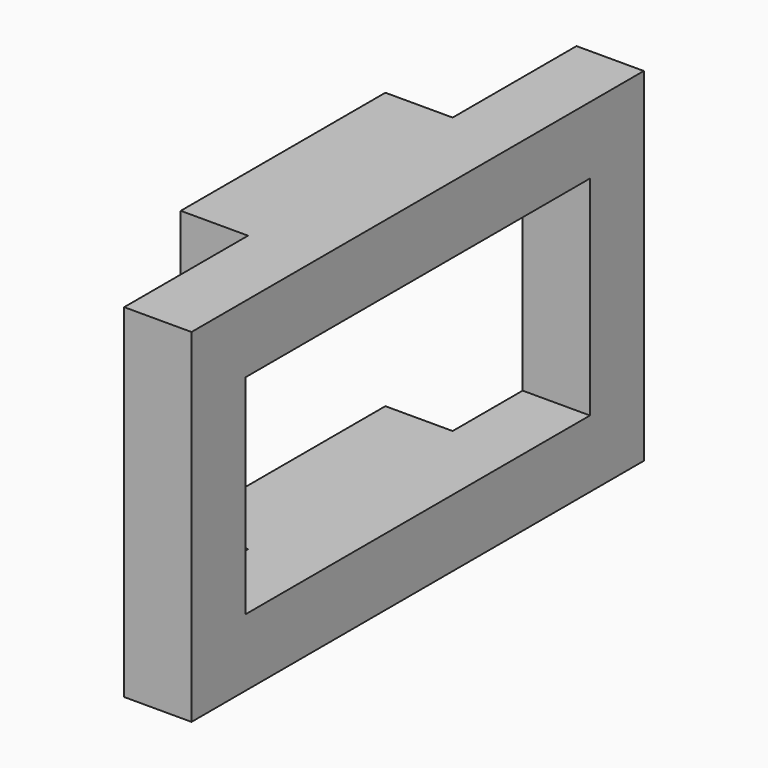
from build123d import *

# Parameters (mm, degrees)
SKETCH061_W     = 2
SKETCH061_H     = 10.2
PAD021_DEPTH    = 8.4
SKETCH062_W     = 2
SKETCH062_H     = 6.2
POCKET014_DEPTH = 6.4
SKETCH063_W     = 2
SKETCH063_H     = 2
PAD022_DEPTH    = 3.8


with BuildPart() as part:
    # Sketch061 → Pad021 (new body, symmetric)
    with BuildSketch(Plane.XZ):
        Rectangle(SKETCH061_W, SKETCH061_H)
    extrude(amount=PAD021_DEPTH, both=True)

    # Sketch062 → Pocket014 (cut, symmetric)
    with BuildSketch(Plane.XZ):
        Rectangle(SKETCH062_W, SKETCH062_H)
    extrude(amount=POCKET014_DEPTH, both=True, mode=Mode.SUBTRACT)

    # Sketch063 → Pad022 (join, symmetric)
    with BuildSketch(Plane.XZ):
        with Locations((-2, 4.1)):
            Rectangle(SKETCH063_W, SKETCH063_H)
        with Locations((-2, -4.1)):
            Rectangle(SKETCH063_W, SKETCH063_H)
    extrude(amount=PAD022_DEPTH, both=True)


solid = part.part
